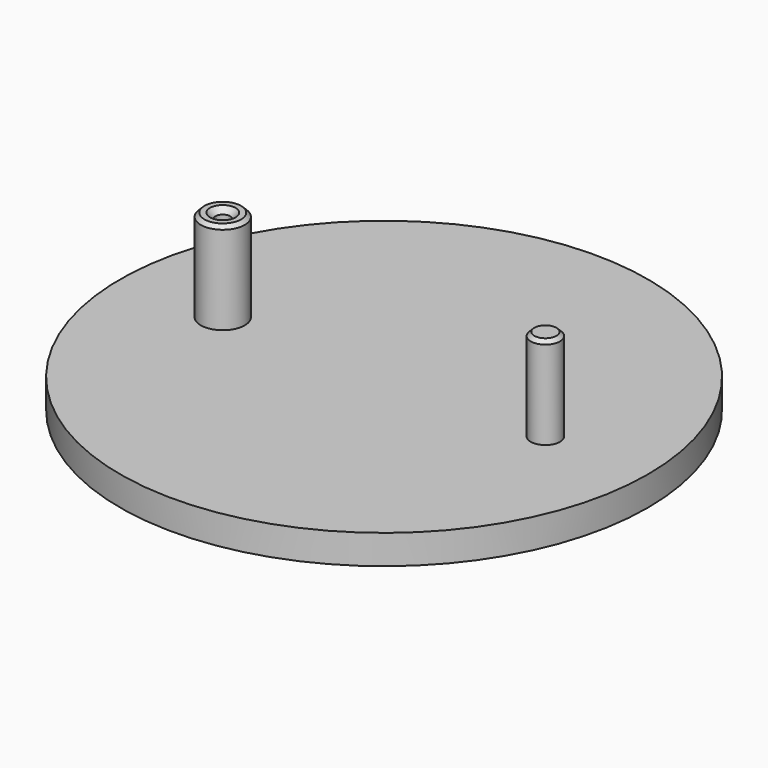
from build123d import *

# Parameters (mm, degrees)
F0_R     = 114.3
F0_R_2   = 3.175
F1_DEPTH = 12.7
F2_R     = 9.525
F2_R_2   = 3.175
F3_DEPTH = 39.878
F4_SIZE  = 2.38125
F5_SIZE  = 1.5875
F6_SIZE  = 1.5875


with BuildPart() as f1:
    # F0 (on Top) → F1 (new body)
    with BuildSketch(Plane.XY):
        Circle(F0_R)
        with Locations((-69.85, 0)):
            Circle(F0_R_2, mode=Mode.SUBTRACT)
    extrude(amount=F1_DEPTH)

    # F2 (on face) → F3 (join)
    with BuildSketch(Plane.XY.offset(12.7)):
        with BuildLine():
            ThreePointArc((76.2, 0), (69.85, 6.35), (63.5, 0))
            ThreePointArc((63.5, 0), (69.85, -6.35), (76.2, 0))
        make_face()
        with Locations((-69.85, 0)):
            Circle(F2_R)
        with Locations((-69.85, 0)):
            Circle(F2_R_2, mode=Mode.SUBTRACT)
    extrude(amount=F3_DEPTH)

    # F4
    f4_edges = [f1.edges().sort_by_distance(p)[0] for p in [
        (-73.025, 0, 52.578),
    ]]
    chamfer(f4_edges, length=F4_SIZE)

    # F5
    f5_edges = [f1.edges().sort_by_distance(p)[0] for p in [
        (76.2, 0, 52.578),
    ]]
    chamfer(f5_edges, length=F5_SIZE)

    # F6
    f6_edges = [f1.edges().sort_by_distance(p)[0] for p in [
        (-79.375, 0, 52.578),
    ]]
    chamfer(f6_edges, length=F6_SIZE)


solid = f1.part
